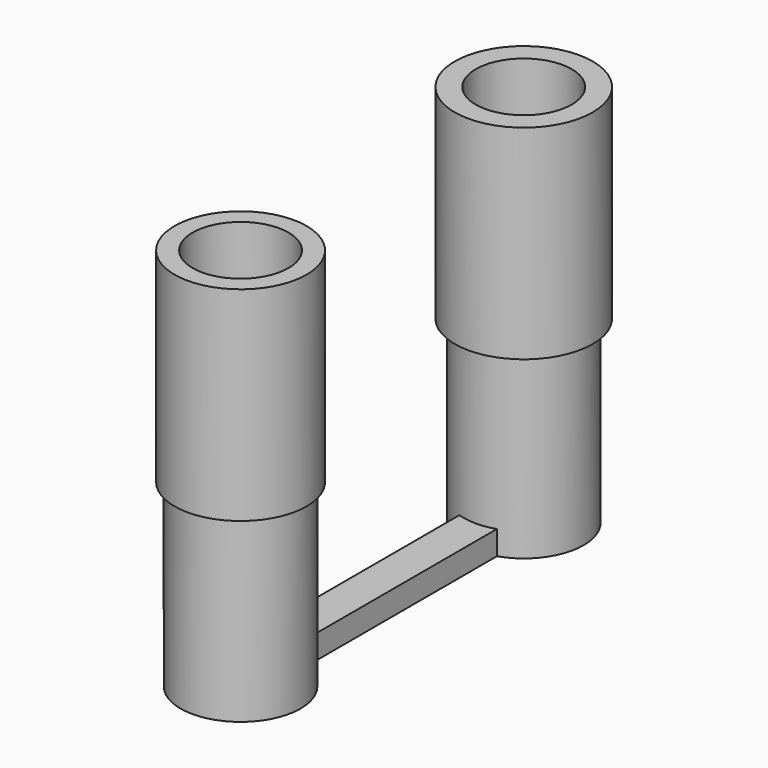
from build123d import *

# Parameters (mm, degrees)
F0_R      = 50
F1_DEPTH  = 150
F2_R      = 45
F3_DEPTH  = 140
F4_R      = 57.5
F5_DEPTH  = 170
F6_R      = 40
F7_DEPTH  = 383
F8_W      = 31.225212
F8_H      = 200
F9_DEPTH  = 20
F10_R     = 50
F11_DEPTH = 150
F12_R     = 45
F13_DEPTH = 150
F14_R     = 55
F15_DEPTH = 170
F16_R     = 40
F17_DEPTH = 5000


with BuildPart() as f1:
    # F0 (on Top) → F1 (new body)
    with BuildSketch(Plane.XY):
        Circle(F0_R)
    extrude(amount=F1_DEPTH)

    # F2 (on face) → F3 (cut)
    with BuildSketch(Plane(origin=(0, 0, 0), x_dir=(1, 0, 0), z_dir=(0, 0, -1))):
        Circle(F2_R)
    extrude(amount=-F3_DEPTH, mode=Mode.SUBTRACT)

    # F4 (on face) → F5 (join)
    with BuildSketch(Plane.XY.offset(150)):
        Circle(F4_R)
    extrude(amount=F5_DEPTH)

    # F6 (on face) → F7 (cut)
    with BuildSketch(Plane.XY.offset(320)):
        Circle(F6_R)
    extrude(amount=-F7_DEPTH, mode=Mode.SUBTRACT)

    # F8 (on face) → F9 (join)
    with BuildSketch(Plane(origin=(0, 0, 0), x_dir=(1, 0, 0), z_dir=(0, 0, -1))):
        with Locations((0, 147.499964)):
            Rectangle(F8_W, F8_H)
    extrude(amount=-F9_DEPTH)

    # F10 (on face) → F11 (join)
    with BuildSketch(Plane(origin=(0, 0, 0), x_dir=(1, 0, 0), z_dir=(0, 0, -1))):
        with Locations((0, 294.999964)):
            Circle(F10_R)
    extrude(amount=-F11_DEPTH)

    # F12 (on face) → F13 (cut)
    with BuildSketch(Plane(origin=(0, 0, 0), x_dir=(1, 0, 0), z_dir=(0, 0, -1))):
        with Locations((0, 294.999964)):
            Circle(F12_R)
    extrude(amount=-F13_DEPTH, mode=Mode.SUBTRACT)

    # F14 (on face) → F15 (join)
    with BuildSketch(Plane.XY.offset(150)):
        with Locations((0, -294.999964)):
            Circle(F14_R)
    extrude(amount=F15_DEPTH)

    # F16 (on face) → F17 (cut)
    with BuildSketch(Plane.XY.offset(320)):
        with Locations((0, -294.999964)):
            Circle(F16_R)
    extrude(amount=-F17_DEPTH, mode=Mode.SUBTRACT)


solid = f1.part
